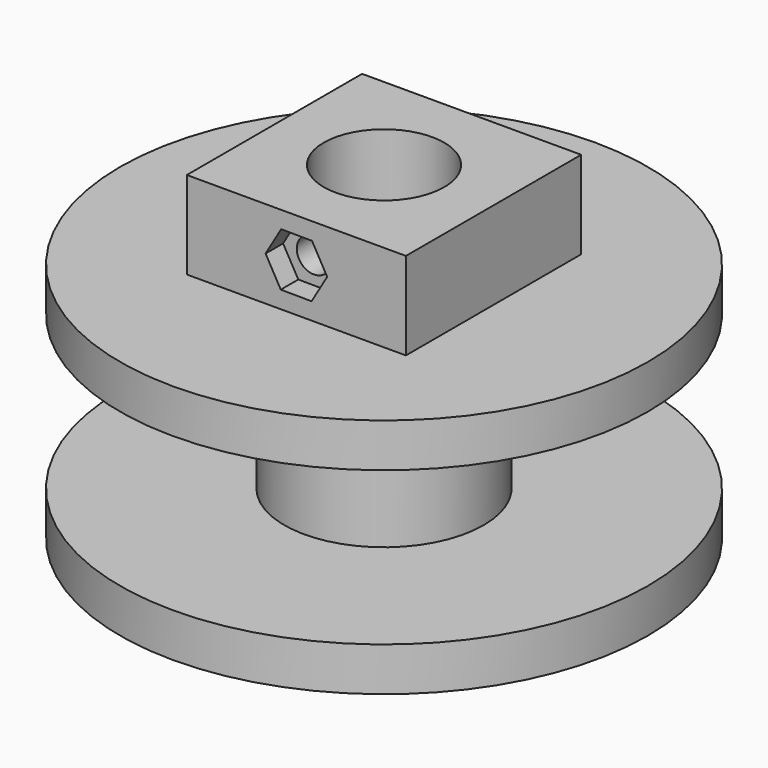
from build123d import *

# Parameters (mm, degrees)
F0_W      = 6.477
F0_H      = 38.1
F0_W_2    = 19.05
F0_H_2    = 5.08
F4_D      = 13.97
F5_W      = 25.4
F5_H      = 25.4
F5_R      = 11.557
F6_DEPTH  = 10.16
F8_DEPTH  = 2.54
F9_R      = 1.984375
F10_DEPTH = 5.08


with BuildPart() as f1:
    # F0 (on Front) → F1 (revolve)
    with BuildSketch(Plane.XZ):
        with Locations((3.2385, 19.05)):
            Rectangle(F0_W, F0_H)
        Polygon((6.477, 38.1), (6.477, 0), (11.557, 0), (11.557, 5.08), (11.557, 22.86), (11.557, 27.94), (11.557, 38.1), align=None)
        with Locations((21.082, 2.54)):
            Rectangle(F0_W_2, F0_H_2)
        with Locations((21.082, 25.4)):
            Rectangle(F0_W_2, F0_H_2)
    revolve(axis=Axis((0, 0, 19.05), (0, 0, 1)))

    # F4 (through all)
    with Locations(Plane.XY.offset(38.1)):
        with Locations((0, 0)):
            Hole(F4_D / 2)

    # F5 (on face) → F6 (join)
    with BuildSketch(Plane.XY.offset(27.94)):
        Rectangle(F5_W, F5_H)
        Circle(F5_R, mode=Mode.SUBTRACT)
    extrude(amount=F6_DEPTH)

    # F7 (on face) → F8 (cut)
    with BuildSketch(Plane.XZ.offset(12.7)):
        Polygon((-1.809819, 29.940453), (1.762056, 29.912878), (3.571875, 32.992424), (1.809819, 36.099547), (-1.762056, 36.127122), (-3.571875, 33.047576), align=None)
    extrude(amount=-F8_DEPTH, mode=Mode.SUBTRACT)

    # F9 (on face) → F10 (cut)
    with BuildSketch(Plane.XZ.offset(10.16)):
        with Locations((0, 33.025466)):
            Circle(F9_R)
    extrude(amount=-F10_DEPTH, mode=Mode.SUBTRACT)


solid = f1.part
